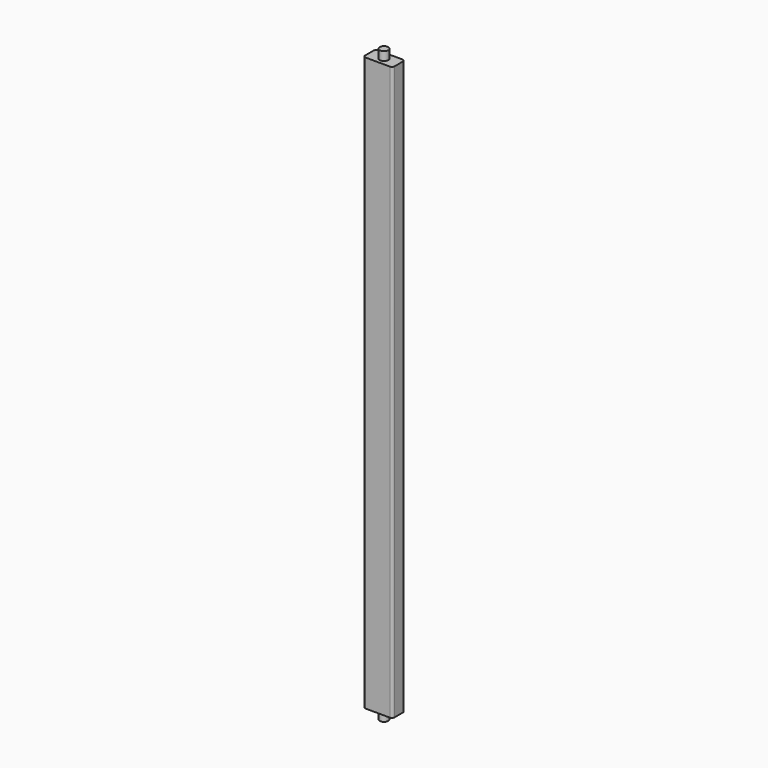
from build123d import *

# Parameters (mm, degrees)
F0_W          = 34
F0_H          = 18
F1_DEPTH      = 662
F2_R          = 5
F3_DEPTH      = 10
F3_DEPTH_BACK = 672
F4_R          = 3


with BuildPart() as f1:
    # F0 (on Top) → F1 (new body)
    with BuildSketch(Plane.XY):
        with Locations((17, 9)):
            Rectangle(F0_W, F0_H)
    extrude(amount=F1_DEPTH)

    # F2 (on face) → F3 (join, two sides)
    with BuildSketch(Plane(origin=(0, 0, 0), x_dir=(1, 0, 0), z_dir=(0, 0, -1))) as f3_sk:
        with Locations((17, -9)):
            Circle(F2_R)
    extrude(amount=F3_DEPTH)
    extrude(f3_sk.sketch, amount=-F3_DEPTH_BACK)

    # F4
    f4_edges = [f1.edges().sort_by_distance(p)[0] for p in [
        (0, 0, 331),
        (0, 18, 331),
        (34, 18, 331),
        (34, 0, 331),
    ]]
    fillet(f4_edges, radius=F4_R)


solid = f1.part
